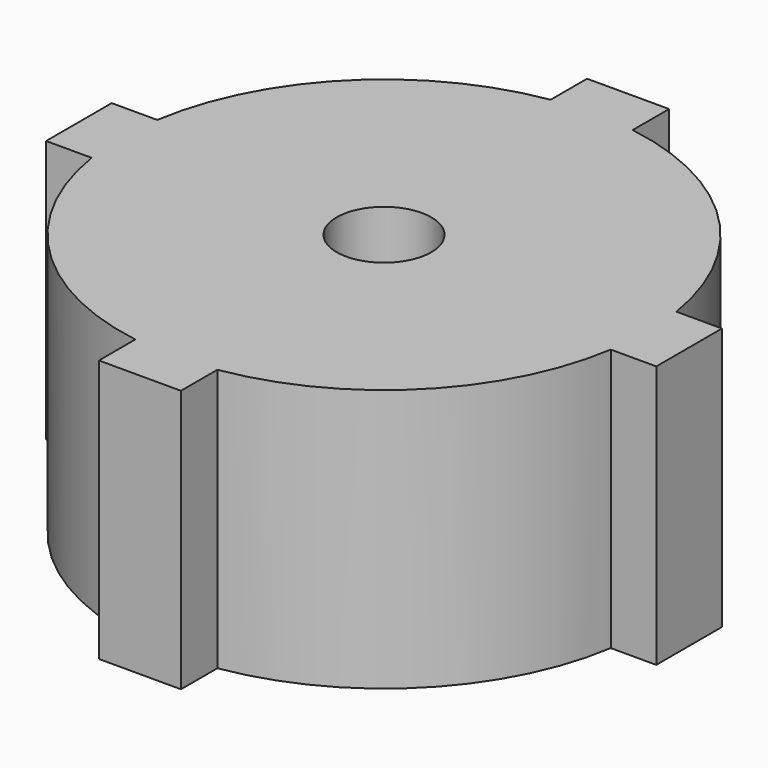
from build123d import *

# Parameters (mm, degrees)
F0_R     = 9
F1_DEPTH = 50


with BuildPart() as f1:
    # F0 (on Top) → F1 (new body)
    with BuildSketch(Plane.XY):
        with BuildLine():
            ThreePointArc((49.38715, -7.804448), (49.846552, -3.914237), (50, 0))
            ThreePointArc((50, 0), (49.846552, 3.914237), (49.38715, 7.804448))
            ThreePointArc((49.38715, 7.804448), (35.355339, 35.355339), (7.804448, 49.38715))
            ThreePointArc((7.804448, 49.38715), (0, 50), (-7.804448, 49.38715))
            ThreePointArc((-7.804448, 49.38715), (-35.355339, 35.355339), (-49.38715, 7.804448))
            ThreePointArc((-49.38715, 7.804448), (-50, 0), (-49.38715, -7.804448))
            ThreePointArc((-49.38715, -7.804448), (-35.355339, -35.355339), (-7.804448, -49.38715))
            ThreePointArc((-7.804448, -49.38715), (0, -50), (7.804448, -49.38715))
            ThreePointArc((7.804448, -49.38715), (35.355339, -35.355339), (49.38715, -7.804448))
        make_face()
        Circle(F0_R, mode=Mode.SUBTRACT)
        with BuildLine():
            ThreePointArc((-7.804448, 49.38715), (0, 50), (7.804448, 49.38715))
            Line((7.804448, 49.38715), (7.804448, 58.050208))
            Line((7.804448, 58.050208), (-7.804448, 58.050208))
            Line((-7.804448, 58.050208), (-7.804448, 49.38715))
        make_face()
        with BuildLine():
            ThreePointArc((49.38715, 7.804448), (49.846552, 3.914237), (50, 0))
            ThreePointArc((50, 0), (49.846552, -3.914237), (49.38715, -7.804448))
            Line((49.38715, -7.804448), (58.050208, -7.804448))
            Line((58.050208, -7.804448), (58.050208, 7.804448))
            Line((58.050208, 7.804448), (49.38715, 7.804448))
        make_face()
        with BuildLine():
            Line((7.804448, -58.050208), (7.804448, -49.38715))
            ThreePointArc((7.804448, -49.38715), (0, -50), (-7.804448, -49.38715))
            Line((-7.804448, -49.38715), (-7.804448, -58.050208))
            Line((-7.804448, -58.050208), (7.804448, -58.050208))
        make_face()
        with BuildLine():
            ThreePointArc((-49.38715, -7.804448), (-50, 0), (-49.38715, 7.804448))
            Line((-49.38715, 7.804448), (-58.050208, 7.804448))
            Line((-58.050208, 7.804448), (-58.050208, -7.804448))
            Line((-58.050208, -7.804448), (-49.38715, -7.804448))
        make_face()
    extrude(amount=F1_DEPTH)


solid = f1.part
